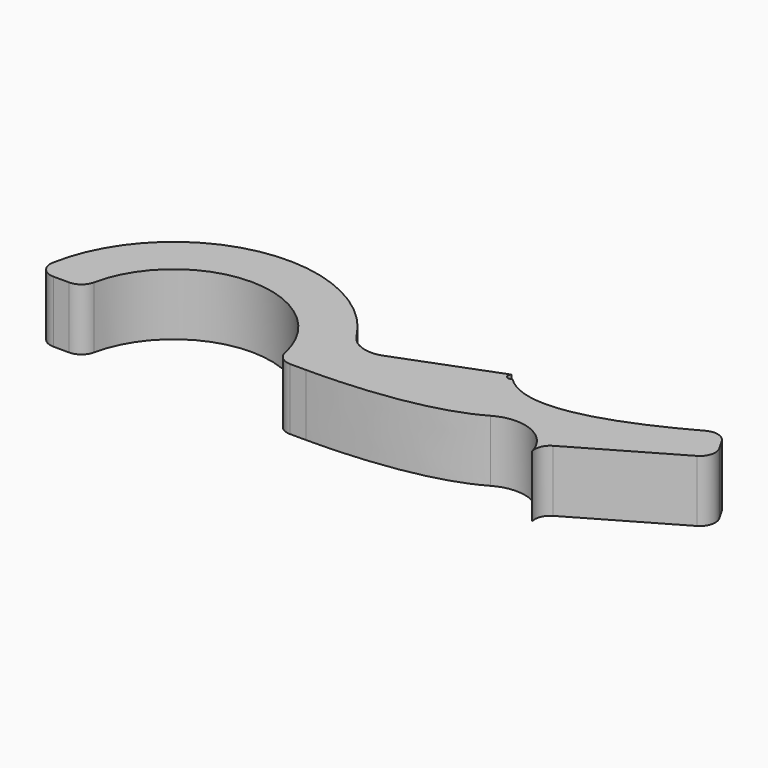
from build123d import *

# Parameters (mm, degrees)
F1_DEPTH = 6.35


with BuildPart() as f1:
    # F0 (on Top) → F1 (new body)
    with BuildSketch(Plane.XY):
        with BuildLine():
            ThreePointArc((-15.420869, 6.626994), (-17.556945, 6.580414), (-19.23888, 7.898019))
            ThreePointArc((-19.23888, 7.898019), (-34.557502, 14.526691), (-46.303058, 2.667458))
            ThreePointArc((-46.303058, 2.667458), (-45.961102, 1.364933), (-44.741571, 0.79375))
            Line((-44.741571, 0.79375), (-43.123903, 0.79375))
            ThreePointArc((-43.123903, 0.79375), (-42.122971, 1.149061), (-41.570091, 2.055943))
            ThreePointArc((-41.570091, 2.055943), (-31.75, 10.033), (-21.929909, 2.055943))
            ThreePointArc((-21.929909, 2.055943), (-21.377029, 1.149061), (-20.376097, 0.79375))
            Line((-20.376097, 0.79375), (-18.758425, 0.79375))
            add(Edge.make_bspline(
                [(-18.758425, 0.79375), (-16.975807, 0.79375), (-7.451685, 0.79375), (-2.206625, 3.821987)],
                knots=[0, 0, 0, 0, 16.826535, 16.826535, 16.826535, 16.826535], degree=3))
            ThreePointArc((-2.206625, 3.821987), (1.700976, 4.072279), (4.26958, 1.1169))
            ThreePointArc((4.26958, 1.1169), (4.340551, 2.130524), (5.01165, 2.893477))
            Line((5.01165, 2.893477), (15.122969, 8.73125))
            ThreePointArc((15.122969, 8.73125), (15.862626, 9.69519), (15.704034, 10.899815))
            Line((15.704034, 10.899815), (15.076715, 11.986363))
            ThreePointArc((15.076715, 11.986363), (14.128896, 12.72161), (12.937273, 12.583837))
            add(Edge.make_bspline(
                [(-4.793212, 9.911958), (-1.45199, 6.570736), (5.2496, 8.358633), (12.937273, 12.583837)],
                knots=[0, 0, 0, 0, 18.323026, 18.323026, 18.323026, 18.323026], degree=3))
            ThreePointArc((-4.793212, 9.911958), (-5.354478, 9.911958), (-5.354478, 10.473224))
            Line((-5.354478, 10.473224), (-15.420869, 6.626994))
        make_face()
    extrude(amount=F1_DEPTH)


solid = f1.part
